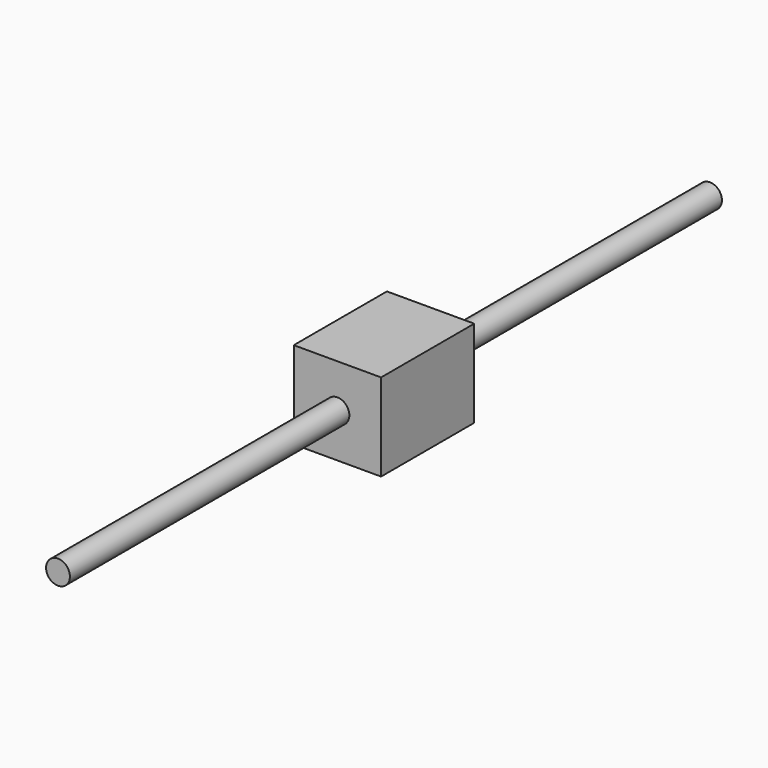
from build123d import *

# Parameters (mm, degrees)
F0_R     = 2.05
F1_DEPTH = 70
F2_W     = 20
F2_H     = 15
F3_DEPTH = 7.5


with BuildPart() as f1:
    # F0 (on Front) → F1 (new body, symmetric)
    with BuildSketch(Plane.XZ):
        Circle(F0_R)
    extrude(amount=F1_DEPTH, both=True)

    # F2 (on Right) → F3 (join, symmetric)
    with BuildSketch(Plane.YZ):
        Rectangle(F2_W, F2_H)
    extrude(amount=F3_DEPTH, both=True)


solid = f1.part
